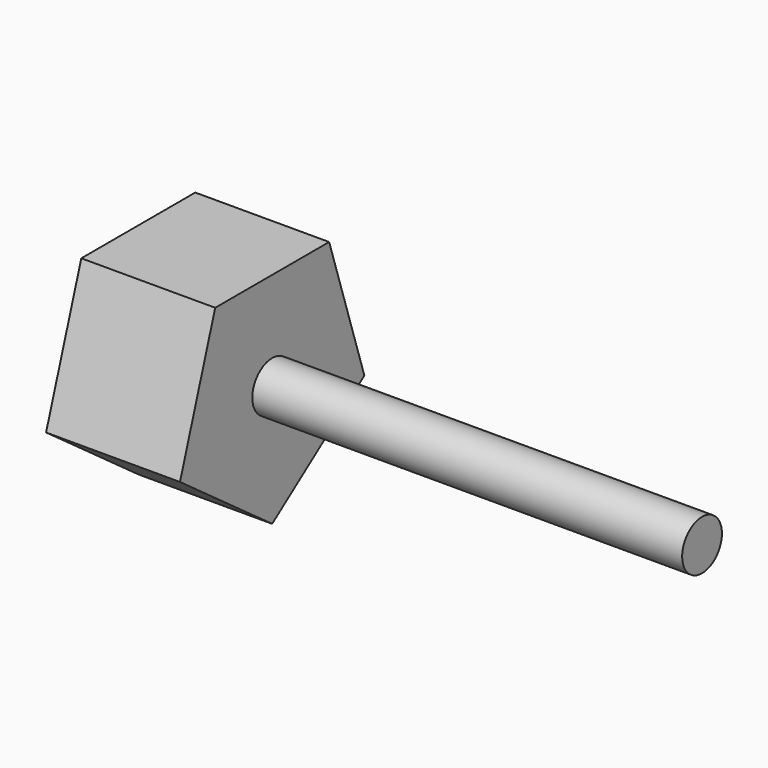
from build123d import *

# Parameters (mm, degrees)
F0_R     = 9.42624
F1_DEPTH = 213.868
F3_DEPTH = 50.8


with BuildPart() as f1:
    # F0 (on Right) → F1 (new body)
    with BuildSketch(Plane.YZ):
        Circle(F0_R)
    extrude(amount=F1_DEPTH)

    # F2 (on face) → F3 (join)
    with BuildSketch(Plane(origin=(0, 0, 0), x_dir=(0, -1, 0), z_dir=(-1, 0, 0))):
        Polygon((27.016499, 37.185021), (-27.016499, 37.185021), (-43.713614, -14.203414), (0, -45.963213), (43.713614, -14.203414), align=None)
    extrude(amount=-F3_DEPTH)


solid = f1.part
